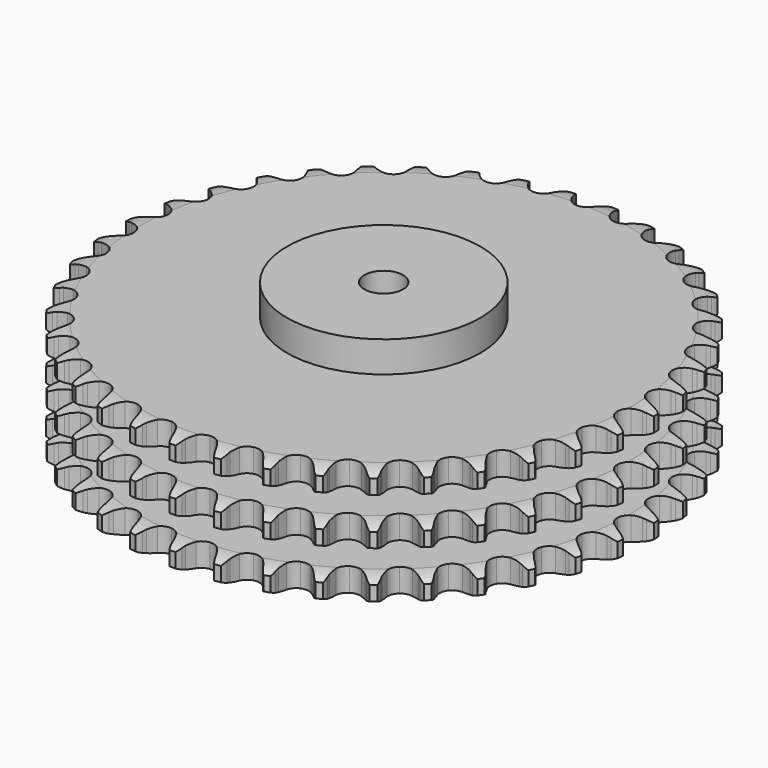
from build123d import *

# Parameters (mm, degrees)
PAD_DEPTH         = 91
SKETCH001_R       = 75
PAD001_DEPTH      = 115
SKETCH002_R       = 15
POCKET_DEPTH      = 0.001
POCKET_DEPTH_BACK = 115.001


with BuildPart() as part:
    # Sprocket → Pad (new body)
    with BuildSketch(Plane.XY):
        with BuildLine():
            ThreePointArc((-16.715659, 207.060594), (-13.935203, 204.055727), (-12.040041, 200.426881))
            Line((-12.040041, 200.426881), (-11.111154, 197.871225))
            ThreePointArc((-11.111154, 197.871225), (-9.644767, 194.595436), (-7.721808, 191.565038))
            ThreePointArc((-7.721808, 191.565038), (-4.322892, 188.703275), (0, 187.676176))
            ThreePointArc((0, 187.676176), (4.322892, 188.703275), (7.721808, 191.565038))
            ThreePointArc((7.721808, 191.565038), (9.644767, 194.595436), (11.111154, 197.871225))
            Line((11.111154, 197.871225), (12.040041, 200.426881))
            ThreePointArc((12.040041, 200.426881), (13.935203, 204.055727), (16.715659, 207.060594))
            ThreePointArc((16.715659, 207.060594), (18.978094, 203.648623), (20.266607, 199.762764))
            Line((20.266607, 199.762764), (20.77351, 197.091199))
            ThreePointArc((20.77351, 197.091199), (21.695434, 193.622606), (23.107381, 190.322986))
            ThreePointArc((23.107381, 190.322986), (26.003223, 186.953058), (30.105376, 185.245819))
            ThreePointArc((30.105376, 185.245819), (34.537045, 185.566176), (38.351006, 187.845656))
            Line((38.351006, 187.845656), (42.708044, 193.52649))
            ThreePointArc((42.708044, 193.52649), (43.338962, 194.73143), (44.034859, 195.900047))
            ThreePointArc((44.034859, 195.900047), (46.487587, 199.177895), (49.714051, 201.697834))
            ThreePointArc((49.714051, 201.697834), (51.399869, 197.967126), (52.04836, 193.924896))
            Line((52.04836, 193.924896), (52.12015, 191.206615))
            ThreePointArc((52.12015, 191.206615), (52.473734, 187.635052), (53.3381, 184.151669))
            ThreePointArc((53.3381, 184.151669), (55.655867, 180.360854), (59.431038, 178.017693))
            ThreePointArc((59.431038, 178.017693), (63.856708, 177.623011), (67.986933, 179.26117))
            Line((67.986933, 179.26117), (73.198818, 184.169521))
            ThreePointArc((73.198818, 184.169521), (74.014852, 185.257651), (74.889196, 186.299505))
            ThreePointArc((74.889196, 186.299505), (77.835966, 189.14146), (81.424875, 191.111205))
            ThreePointArc((81.424875, 191.111205), (82.490415, 187.158385), (82.482089, 183.064475))
            Line((82.482089, 183.064475), (82.116905, 180.369879))
            ThreePointArc((82.116905, 180.369879), (81.892992, 176.787848), (82.187391, 173.210921))
            ThreePointArc((82.187391, 173.210921), (83.867054, 169.0974), (87.217468, 166.179001))
            ThreePointArc((87.217468, 166.179001), (91.522515, 165.079504), (95.862034, 166.033914))
            Line((95.862034, 166.033914), (101.793781, 170.042658))
            ThreePointArc((101.793781, 170.042658), (102.773796, 170.985796), (103.803943, 171.873903))
            ThreePointArc((103.803943, 171.873903), (107.168434, 174.206361), (111.026837, 175.574897))
            ThreePointArc((111.026837, 175.574897), (111.444502, 171.50234), (110.779574, 167.462781))
            Line((110.779574, 167.462781), (109.986876, 164.861659))
            ThreePointArc((109.986876, 164.861659), (109.191264, 161.361932), (108.908071, 157.7841))
            ThreePointArc((108.908071, 157.7841), (109.906128, 153.454411), (112.745011, 150.036361))
            ThreePointArc((112.745011, 150.036361), (116.817937, 148.260524), (121.254358, 148.506467))
            Line((121.254358, 148.506467), (127.752339, 151.511779))
            ThreePointArc((127.752339, 151.511779), (128.870953, 152.285498), (130.030222, 152.996858))
            ThreePointArc((130.030222, 152.996858), (133.725297, 154.759409), (137.753263, 155.491291))
            ThreePointArc((137.753263, 155.491291), (137.512235, 151.404474), (136.207927, 147.523889))
            Line((136.207927, 147.523889), (135.008245, 145.083608))
            ThreePointArc((135.008245, 145.083608), (133.66154, 141.756827), (132.80809, 138.270754))
            ThreePointArc((132.80809, 138.270754), (133.098691, 133.837034), (135.352518, 130.007858))
            ThreePointArc((135.352518, 130.007858), (139.087836, 127.601674), (143.506259, 127.13278))
            Line((143.506259, 127.13278), (150.402179, 129.056825))
            ThreePointArc((150.402179, 129.056825), (151.63042, 129.641087), (152.888787, 130.157274))
            ThreePointArc((152.888787, 130.157274), (156.818744, 131.304269), (160.911951, 131.380542))
            ThreePointArc((160.911951, 131.380542), (160.018473, 127.385312), (158.108566, 123.764205))
            Line((158.108566, 123.764205), (156.532971, 121.547968))
            ThreePointArc((156.532971, 121.547968), (154.670052, 118.480295), (153.268449, 115.176268))
            ThreePointArc((153.268449, 115.176268), (152.844068, 110.753348), (154.454465, 106.61222))
            ThreePointArc((154.454465, 106.61222), (157.755433, 103.638008), (162.041423, 102.466422))
            Line((162.041423, 102.466422), (169.15668, 103.259367))
            ThreePointArc((169.15668, 103.259367), (170.462738, 103.639039), (171.787612, 103.946686))
            ThreePointArc((171.787612, 103.946686), (175.850669, 104.448417), (179.903105, 103.867106))
            ThreePointArc((179.903105, 103.867106), (178.380317, 100.066938), (175.914276, 96.799093))
            Line((175.914276, 96.799093), (174.003575, 94.864299))
            ThreePointArc((174.003575, 94.864299), (171.672692, 92.135185), (169.759235, 89.098778))
            ThreePointArc((169.759235, 89.098778), (168.630864, 84.801208), (169.556123, 80.455381))
            ThreePointArc((169.556123, 80.455381), (172.337247, 76.990172), (176.379799, 75.146236))
            Line((176.379799, 75.146236), (183.530113, 74.787546))
            ThreePointArc((183.530113, 74.787546), (184.880162, 74.952794), (186.237229, 75.043932))
            ThreePointArc((186.237229, 75.043932), (190.328153, 74.887407), (194.234863, 73.663567))
            ThreePointArc((194.234863, 73.663567), (192.122204, 70.156882), (189.163899, 67.326936))
            Line((189.163899, 67.326936), (186.967578, 65.723695))
            ThreePointArc((186.967578, 65.723695), (184.229098, 63.403822), (181.853347, 60.713676))
            ThreePointArc((181.853347, 60.713676), (180.050209, 56.652762), (180.266366, 52.21479))
            ThreePointArc((180.266366, 52.21479), (182.455617, 48.348331), (186.150031, 45.879803))
            Line((186.150031, 45.879803), (193.150212, 44.378766))
            ThreePointArc((193.150212, 44.378766), (194.509286, 44.325312), (195.863399, 44.197581))
            ThreePointArc((195.863399, 44.197581), (199.876238, 43.386852), (203.536039, 41.55218))
            ThreePointArc((203.536039, 41.55218), (200.888228, 38.4298), (197.514277, 36.111047))
            Line((197.514277, 36.111047), (195.089219, 34.880881))
            ThreePointArc((195.089219, 34.880881), (192.014068, 33.030333), (189.237552, 30.756121))
            ThreePointArc((189.237552, 30.756121), (186.806348, 27.037039), (186.307806, 22.621863))
            ThreePointArc((186.307806, 22.621863), (187.848482, 18.454293), (191.099075, 15.425106))
            Line((191.099075, 15.425106), (197.767823, 12.8206))
            ThreePointArc((197.767823, 12.8206), (199.100722, 12.549827), (200.41681, 12.206535))
            ThreePointArc((200.41681, 12.206535), (204.247634, 10.7626), (207.565739, 8.364613))
            ThreePointArc((207.565739, 8.364613), (204.451351, 5.707406), (200.749138, 3.9599))
            Line((200.749138, 3.9599), (198.158152, 3.134672))
            ThreePointArc((198.158152, 3.134672), (194.825975, 1.801377), (191.720605, 0.001999))
            ThreePointArc((191.720605, 0.001999), (188.724301, -3.278929), (187.523971, -7.556958))
            ThreePointArc((187.523971, -7.556958), (188.376171, -11.9177), (191.098753, -15.429092))
            Line((191.098753, -15.429092), (197.26335, -19.069613))
            ThreePointArc((197.26335, -19.069613), (198.535553, -19.550692), (199.779531, -20.100654))
            ThreePointArc((199.779531, -20.100654), (203.329123, -22.140398), (206.219596, -25.039592))
            ThreePointArc((206.219596, -25.039592), (202.719292, -27.162806), (198.784702, -28.293806))
            Line((198.784702, -28.293806), (196.094893, -28.692725))
            ThreePointArc((196.094893, -28.692725), (192.591991, -29.474235), (189.238194, -30.752174))
            ThreePointArc((189.238194, -30.752174), (185.754394, -33.509975), (183.883363, -37.540057))
            ThreePointArc((183.883363, -37.540057), (184.025015, -41.981032), (186.149074, -45.883685))
            Line((186.149074, -45.883685), (191.64986, -50.465934))
            ThreePointArc((191.64986, -50.465934), (192.828419, -51.144858), (193.968067, -51.887246))
            ThreePointArc((193.968067, -51.887246), (197.144495, -54.46997), (199.532473, -57.795286))
            ThreePointArc((199.532473, -57.795286), (195.73691, -59.329516), (191.671847, -59.814717))
            Line((191.671847, -59.814717), (188.952879, -59.776994))
            ThreePointArc((188.952879, -59.776994), (185.369975, -59.986479), (181.854613, -60.709883))
            ThreePointArc((181.854613, -60.709883), (177.973545, -62.87313), (175.480273, -66.550889))
            ThreePointArc((175.480273, -66.550889), (174.907709, -70.957077), (176.378231, -75.149915))
            Line((176.378231, -75.149915), (181.07274, -80.555213))
            ThreePointArc((181.07274, -80.555213), (182.127129, -81.414399), (183.132932, -82.329986))
            ThreePointArc((183.132932, -82.329986), (185.853928, -85.388799), (187.677564, -89.054112))
            ThreePointArc((187.677564, -89.054112), (183.685045, -89.959623), (179.594791, -89.786459))
            Line((179.594791, -89.786459), (176.917084, -89.313071))
            ThreePointArc((176.917084, -89.313071), (173.346975, -88.945105), (169.761094, -89.095237))
            ThreePointArc((169.761094, -89.095237), (165.583276, -90.607903), (162.532336, -93.838088))
            ThreePointArc((162.532336, -93.838088), (161.260384, -98.095371), (162.039286, -102.469801))
            Line((162.039286, -102.469801), (165.805931, -108.558154))
            ThreePointArc((165.805931, -108.558154), (166.708842, -109.57535), (167.55475, -110.640422))
            ThreePointArc((167.55475, -110.640422), (169.749842, -114.096104), (170.961905, -118.006483))
            ThreePointArc((170.961905, -118.006483), (166.875833, -118.259823), (162.866325, -117.432778))
            Line((162.866325, -117.432778), (160.29923, -116.535986))
            ThreePointArc((160.29923, -116.535986), (156.834379, -115.6001), (153.270851, -115.173072))
            ThreePointArc((153.270851, -115.173072), (148.904486, -115.99598), (145.374897, -118.69493))
            ThreePointArc((145.374897, -118.69493), (143.4365, -122.693047), (143.503607, -127.135773))
            Line((143.503607, -127.135773), (146.244835, -133.749496))
            ThreePointArc((146.244835, -133.749496), (146.972885, -134.898357), (147.636988, -136.08533))
            ThreePointArc((147.636988, -136.08533), (149.249324, -139.848378), (149.818422, -143.902548))
            ThreePointArc((149.818422, -143.902548), (145.744625, -143.497156), (141.919706, -142.03765))
            Line((141.919706, -142.03765), (139.529711, -140.740681))
            ThreePointArc((139.529711, -140.740681), (136.259855, -139.261112), (132.810974, -138.267984))
            ThreePointArc((132.810974, -138.267984), (128.369148, -138.379822), (124.452325, -140.477635))
            ThreePointArc((124.452325, -140.477635), (121.897686, -144.113037), (121.251261, -148.508996))
            Line((121.251261, -148.508996), (122.896075, -155.476796))
            ThreePointArc((122.896075, -155.476796), (123.430406, -156.727567), (123.895506, -158.005699))
            ThreePointArc((123.895506, -158.005699), (124.883327, -161.978654), (124.794721, -166.071613))
            ThreePointArc((124.794721, -166.071613), (120.838708, -165.017987), (117.297442, -162.963822))
            Line((117.297442, -162.963822), (115.146445, -161.300266))
            ThreePointArc((115.146445, -161.300266), (112.156272, -159.315335), (108.911362, -157.781829))
            ThreePointArc((108.911362, -157.781829), (104.509117, -157.179699), (100.306503, -158.622043))
            ThreePointArc((100.306503, -158.622043), (97.201787, -161.800575), (95.858571, -166.035914))
            Line((95.858571, -166.035914), (96.364371, -173.17733))
            ThreePointArc((96.364371, -173.17733), (96.691145, -174.497616), (96.945195, -175.833803))
            ThreePointArc((96.945195, -175.833803), (97.282917, -179.913767), (96.538902, -183.93951))
            ThreePointArc((96.538902, -183.93951), (92.803132, -182.26494), (89.637235, -179.669316))
            Line((89.637235, -179.669316), (87.780946, -177.682258))
            ThreePointArc((87.780946, -177.682258), (85.147901, -175.243375), (82.191003, -173.209206))
            ThreePointArc((82.191003, -173.209206), (77.942354, -171.908705), (73.562795, -172.658224))
            ThreePointArc((73.562795, -172.658224), (69.988412, -175.297563), (67.983194, -179.262588))
            Line((67.983194, -179.262588), (67.33688, -186.392661))
            ThreePointArc((67.33688, -186.392661), (67.447634, -187.748268), (67.484055, -189.107904))
            ThreePointArc((67.484055, -189.107904), (67.162931, -193.189208), (65.782776, -197.04347))
            ThreePointArc((65.782776, -197.04347), (62.364003, -194.791326), (59.655472, -191.721469))
            Line((59.655472, -191.721469), (58.141967, -189.462374))
            ThreePointArc((58.141967, -189.462374), (55.934244, -186.632703), (53.341941, -184.150557))
            ThreePointArc((53.341941, -184.150557), (49.356926, -182.185365), (44.913849, -182.222648))
            ThreePointArc((44.913849, -182.222648), (40.962373, -184.254436), (38.347088, -187.846456))
            Line((38.347088, -187.846456), (36.5654, -194.78052))
            ThreePointArc((36.5654, -194.78052), (36.457265, -196.136339), (36.275113, -197.48421))
            ThreePointArc((36.275113, -197.48421), (35.30346, -201.461151), (33.322911, -205.044109))
            ThreePointArc((33.322911, -205.044109), (30.30968, -202.272719), (28.128663, -198.808137))
            Line((28.128663, -198.808137), (26.997142, -196.335513))
            ThreePointArc((26.997142, -196.335513), (25.271919, -193.188342), (23.11135, -190.322504))
            ThreePointArc((23.11135, -190.322504), (19.493179, -187.74352), (15.101658, -187.0676))
            ThreePointArc((15.101658, -187.0676), (10.875431, -188.439216), (7.717813, -191.565199))
            Line((7.717813, -191.565199), (4.846895, -198.123666))
            ThreePointArc((4.846895, -198.123666), (4.522671, -199.444581), (4.126664, -200.745779))
            ThreePointArc((4.126664, -200.745779), (2.529648, -204.515355), (0, -207.734212))
            ThreePointArc((0, -207.734212), (-2.529648, -204.515355), (-4.126664, -200.745779))
            Line((-4.126664, -200.745779), (-4.846895, -198.123666))
            ThreePointArc((-4.846895, -198.123666), (-6.044935, -194.740505), (-7.717813, -191.565199))
            ThreePointArc((-7.717813, -191.565199), (-10.875431, -188.439216), (-15.101658, -187.0676))
            ThreePointArc((-15.101658, -187.0676), (-19.493179, -187.74352), (-23.11135, -190.322504))
            Line((-23.11135, -190.322504), (-26.997142, -196.335513))
            ThreePointArc((-26.997142, -196.335513), (-27.529057, -197.587314), (-28.128663, -198.808137))
            ThreePointArc((-28.128663, -198.808137), (-30.30968, -202.272719), (-33.322911, -205.044109))
            ThreePointArc((-33.322911, -205.044109), (-35.30346, -201.461151), (-36.275113, -197.48421))
            Line((-36.275113, -197.48421), (-36.5654, -194.78052))
            ThreePointArc((-36.5654, -194.78052), (-37.205229, -191.24899), (-38.347088, -187.846456))
            ThreePointArc((-38.347088, -187.846456), (-40.962373, -184.254436), (-44.913849, -182.222648))
            ThreePointArc((-44.913849, -182.222648), (-49.356926, -182.185365), (-53.341941, -184.150557))
            Line((-53.341941, -184.150557), (-58.141967, -189.462374))
            ThreePointArc((-58.141967, -189.462374), (-58.867797, -190.612639), (-59.655472, -191.721469))
            ThreePointArc((-59.655472, -191.721469), (-62.364003, -194.791326), (-65.782776, -197.04347))
            ThreePointArc((-65.782776, -197.04347), (-67.162931, -193.189208), (-67.484055, -189.107904))
            Line((-67.484055, -189.107904), (-67.33688, -186.392661))
            ThreePointArc((-67.33688, -186.392661), (-67.401926, -182.804228), (-67.983194, -179.262588))
            ThreePointArc((-67.983194, -179.262588), (-69.988412, -175.297563), (-73.562795, -172.658224))
            ThreePointArc((-73.562795, -172.658224), (-77.942354, -171.908705), (-82.191003, -173.209206))
            Line((-82.191003, -173.209206), (-87.780946, -177.682258))
            ThreePointArc((-87.780946, -177.682258), (-88.681892, -178.701196), (-89.637235, -179.669316))
            ThreePointArc((-89.637235, -179.669316), (-92.803132, -182.26494), (-96.538902, -183.93951))
            ThreePointArc((-96.538902, -183.93951), (-97.282917, -179.913767), (-96.945195, -175.833803))
            Line((-96.945195, -175.833803), (-96.364371, -173.17733))
            ThreePointArc((-96.364371, -173.17733), (-95.852949, -169.624932), (-95.858571, -166.035914))
            ThreePointArc((-95.858571, -166.035914), (-97.201787, -161.800575), (-100.306503, -158.622043))
            ThreePointArc((-100.306503, -158.622043), (-104.509117, -157.179699), (-108.911362, -157.781829))
            Line((-108.911362, -157.781829), (-115.146445, -161.300266))
            ThreePointArc((-115.146445, -161.300266), (-116.199172, -162.161487), (-117.297442, -162.963822))
            ThreePointArc((-117.297442, -162.963822), (-120.838708, -165.017987), (-124.794721, -166.071613))
            ThreePointArc((-124.794721, -166.071613), (-124.883327, -161.978654), (-123.895506, -158.005699))
            Line((-123.895506, -158.005699), (-122.896075, -155.476796))
            ThreePointArc((-122.896075, -155.476796), (-121.821431, -152.052439), (-121.251261, -148.508996))
            ThreePointArc((-121.251261, -148.508996), (-121.897686, -144.113037), (-124.452325, -140.477635))
            ThreePointArc((-124.452325, -140.477635), (-128.369148, -138.379822), (-132.810974, -138.267984))
            Line((-132.810974, -138.267984), (-139.529711, -140.740681))
            ThreePointArc((-139.529711, -140.740681), (-140.706955, -141.42188), (-141.919706, -142.03765))
            ThreePointArc((-141.919706, -142.03765), (-145.744625, -143.497156), (-149.818422, -143.902548))
            ThreePointArc((-149.818422, -143.902548), (-149.249324, -139.848378), (-147.636988, -136.08533))
            Line((-147.636988, -136.08533), (-146.244835, -133.749496))
            ThreePointArc((-146.244835, -133.749496), (-144.634802, -130.541868), (-143.503607, -127.135773))
            ThreePointArc((-143.503607, -127.135773), (-143.4365, -122.693047), (-145.374897, -118.69493))
            ThreePointArc((-145.374897, -118.69493), (-148.904486, -115.99598), (-153.270851, -115.173072))
            Line((-153.270851, -115.173072), (-160.29923, -116.535986))
            ThreePointArc((-160.29923, -116.535986), (-161.570502, -117.019521), (-162.866325, -117.432778))
            ThreePointArc((-162.866325, -117.432778), (-166.875833, -118.259823), (-170.961905, -118.006483))
            ThreePointArc((-170.961905, -118.006483), (-169.749842, -114.096104), (-167.55475, -110.640422))
            Line((-167.55475, -110.640422), (-165.805931, -108.558154))
            ThreePointArc((-165.805931, -108.558154), (-163.702208, -105.650331), (-162.039286, -102.469801))
            ThreePointArc((-162.039286, -102.469801), (-161.260384, -98.095371), (-162.532336, -93.838088))
            ThreePointArc((-162.532336, -93.838088), (-165.583276, -90.607903), (-169.761094, -89.095237))
            Line((-169.761094, -89.095237), (-176.917084, -89.313071))
            ThreePointArc((-176.917084, -89.313071), (-178.249458, -89.586418), (-179.594791, -89.786459))
            ThreePointArc((-179.594791, -89.786459), (-183.685045, -89.959623), (-187.677564, -89.054112))
            ThreePointArc((-187.677564, -89.054112), (-185.853928, -85.388799), (-183.132932, -82.329986))
            Line((-183.132932, -82.329986), (-181.07274, -80.555213))
            ThreePointArc((-181.07274, -80.555213), (-178.529812, -78.022506), (-176.378231, -75.149915))
            ThreePointArc((-176.378231, -75.149915), (-174.907709, -70.957077), (-175.480273, -66.550889))
            ThreePointArc((-175.480273, -66.550889), (-177.973545, -62.87313), (-181.854613, -60.709883))
            Line((-181.854613, -60.709883), (-188.952879, -59.776994))
            ThreePointArc((-188.952879, -59.776994), (-190.311846, -59.833073), (-191.671847, -59.814717))
            ThreePointArc((-191.671847, -59.814717), (-195.73691, -59.329516), (-199.532473, -57.795286))
            ThreePointArc((-199.532473, -57.795286), (-197.144495, -54.46997), (-193.968067, -51.887246))
            Line((-193.968067, -51.887246), (-191.64986, -50.465934))
            ThreePointArc((-191.64986, -50.465934), (-188.733588, -48.37394), (-186.149074, -45.883685))
            ThreePointArc((-186.149074, -45.883685), (-184.025015, -41.981032), (-183.883363, -37.540057))
            ThreePointArc((-183.883363, -37.540057), (-185.754394, -33.509975), (-189.238194, -30.752174))
            Line((-189.238194, -30.752174), (-196.094893, -28.692725))
            ThreePointArc((-196.094893, -28.692725), (-197.445258, -28.530084), (-198.784702, -28.293806))
            ThreePointArc((-198.784702, -28.293806), (-202.719292, -27.162806), (-206.219596, -25.039592))
            ThreePointArc((-206.219596, -25.039592), (-203.329123, -22.140398), (-199.779531, -20.100654))
            Line((-199.779531, -20.100654), (-197.26335, -19.069613))
            ThreePointArc((-197.26335, -19.069613), (-194.049263, -17.472513), (-191.098753, -15.429092))
            ThreePointArc((-191.098753, -15.429092), (-188.376171, -11.9177), (-187.523971, -7.556958))
            ThreePointArc((-187.523971, -7.556958), (-188.724301, -3.278929), (-191.720605, 0.001999))
            Line((-191.720605, 0.001999), (-198.158152, 3.134672))
            ThreePointArc((-198.158152, 3.134672), (-199.464941, 3.51182), (-200.749138, 3.9599))
            ThreePointArc((-200.749138, 3.9599), (-204.451351, 5.707406), (-207.565739, 8.364613))
            ThreePointArc((-207.565739, 8.364613), (-204.247634, 10.7626), (-200.41681, 12.206535))
            Line((-200.41681, 12.206535), (-197.767823, 12.8206))
            ThreePointArc((-197.767823, 12.8206), (-194.339165, 13.881442), (-191.099075, 15.425106))
            ThreePointArc((-191.099075, 15.425106), (-187.848482, 18.454293), (-186.307806, 22.621863))
            ThreePointArc((-186.307806, 22.621863), (-186.806348, 27.037039), (-189.237552, 30.756121))
            Line((-189.237552, 30.756121), (-195.089219, 34.880881))
            ThreePointArc((-195.089219, 34.880881), (-196.318587, 35.46277), (-197.514277, 36.111047))
            ThreePointArc((-197.514277, 36.111047), (-200.888228, 38.4298), (-203.536039, 41.55218))
            ThreePointArc((-203.536039, 41.55218), (-199.876238, 43.386852), (-195.863399, 44.197581))
            Line((-195.863399, 44.197581), (-193.150212, 44.378766))
            ThreePointArc((-193.150212, 44.378766), (-189.595784, 44.875876), (-186.150031, 45.879803))
            ThreePointArc((-186.150031, 45.879803), (-182.455617, 48.348331), (-180.266366, 52.21479))
            ThreePointArc((-180.266366, 52.21479), (-180.050209, 56.652762), (-181.853347, 60.713676))
            Line((-181.853347, 60.713676), (-186.967578, 65.723695))
            ThreePointArc((-186.967578, 65.723695), (-188.087684, 66.495252), (-189.163899, 67.326936))
            ThreePointArc((-189.163899, 67.326936), (-192.122204, 70.156882), (-194.234863, 73.663567))
            ThreePointArc((-194.234863, 73.663567), (-190.328153, 74.887407), (-186.237229, 75.043932))
            Line((-186.237229, 75.043932), (-183.530113, 74.787546))
            ThreePointArc((-183.530113, 74.787546), (-179.941971, 74.708047), (-176.379799, 75.146236))
            ThreePointArc((-176.379799, 75.146236), (-172.337247, 76.990172), (-169.556123, 80.455381))
            ThreePointArc((-169.556123, 80.455381), (-168.630864, 84.801208), (-169.759235, 89.098778))
            Line((-169.759235, 89.098778), (-174.003575, 94.864299))
            ThreePointArc((-174.003575, 94.864299), (-174.985409, 95.805542), (-175.914276, 96.799093))
            ThreePointArc((-175.914276, 96.799093), (-178.380317, 100.066938), (-179.903105, 103.867106))
            ThreePointArc((-179.903105, 103.867106), (-175.850669, 104.448417), (-171.787612, 103.946686))
            Line((-171.787612, 103.946686), (-169.15668, 103.259367))
            ThreePointArc((-169.15668, 103.259367), (-165.627756, 102.60532), (-162.041423, 102.466422))
            ThreePointArc((-162.041423, 102.466422), (-157.755433, 103.638008), (-154.454465, 106.61222))
            ThreePointArc((-154.454465, 106.61222), (-152.844068, 110.753348), (-153.268449, 115.176268))
            Line((-153.268449, 115.176268), (-156.532971, 121.547968))
            ThreePointArc((-156.532971, 121.547968), (-157.351105, 122.634519), (-158.108566, 123.764205))
            ThreePointArc((-158.108566, 123.764205), (-160.018473, 127.385312), (-160.911951, 131.380542))
            ThreePointArc((-160.911951, 131.380542), (-156.818744, 131.304269), (-152.888787, 130.157274))
            Line((-152.888787, 130.157274), (-150.402179, 129.056825))
            ThreePointArc((-150.402179, 129.056825), (-147.02387, 127.845168), (-143.506259, 127.13278))
            ThreePointArc((-143.506259, 127.13278), (-139.087836, 127.601674), (-135.352518, 130.007858))
            ThreePointArc((-135.352518, 130.007858), (-133.098691, 133.837034), (-132.80809, 138.270754))
            Line((-132.80809, 138.270754), (-135.008245, 145.083608))
            ThreePointArc((-135.008245, 145.083608), (-135.641489, 146.287327), (-136.207927, 147.523889))
            ThreePointArc((-136.207927, 147.523889), (-137.512235, 151.404474), (-137.753263, 155.491291))
            ThreePointArc((-137.753263, 155.491291), (-133.725297, 154.759409), (-130.030222, 152.996858))
            Line((-130.030222, 152.996858), (-127.752339, 151.511779))
            ThreePointArc((-127.752339, 151.511779), (-124.612142, 149.773894), (-121.254358, 148.506467))
            ThreePointArc((-121.254358, 148.506467), (-116.817937, 148.260524), (-112.745011, 150.036361))
            ThreePointArc((-112.745011, 150.036361), (-109.906128, 153.454411), (-108.908071, 157.7841))
            Line((-108.908071, 157.7841), (-109.986876, 164.861659))
            ThreePointArc((-109.986876, 164.861659), (-110.41883, 166.151369), (-110.779574, 167.462781))
            ThreePointArc((-110.779574, 167.462781), (-111.444502, 171.50234), (-111.026837, 175.574897))
            ThreePointArc((-111.026837, 175.574897), (-107.168434, 174.206361), (-103.803943, 171.873903))
            Line((-103.803943, 171.873903), (-101.793781, 170.042658))
            ThreePointArc((-101.793781, 170.042658), (-98.973025, 167.823555), (-95.862034, 166.033914))
            ThreePointArc((-95.862034, 166.033914), (-91.522515, 165.079504), (-87.217468, 166.179001))
            ThreePointArc((-87.217468, 166.179001), (-83.867054, 169.0974), (-82.187391, 173.210921))
            Line((-82.187391, 173.210921), (-82.116905, 180.369879))
            ThreePointArc((-82.116905, 180.369879), (-82.336381, 181.712179), (-82.482089, 183.064475))
            ThreePointArc((-82.482089, 183.064475), (-82.490415, 187.158385), (-81.424875, 191.111205))
            ThreePointArc((-81.424875, 191.111205), (-77.835966, 189.14146), (-74.889196, 186.299505))
            Line((-74.889196, 186.299505), (-73.198818, 184.169521))
            ThreePointArc((-73.198818, 184.169521), (-70.770559, 181.526674), (-67.986933, 179.26117))
            ThreePointArc((-67.986933, 179.26117), (-63.856708, 177.623011), (-59.431038, 178.017693))
            ThreePointArc((-59.431038, 178.017693), (-55.655867, 180.360854), (-53.3381, 184.151669))
            Line((-53.3381, 184.151669), (-52.12015, 191.206615))
            ThreePointArc((-52.12015, 191.206615), (-52.121463, 192.566738), (-52.04836, 193.924896))
            ThreePointArc((-52.04836, 193.924896), (-51.399869, 197.967126), (-49.714051, 201.697834))
            ThreePointArc((-49.714051, 201.697834), (-46.487587, 199.177895), (-44.034859, 195.900047))
            Line((-44.034859, 195.900047), (-42.708044, 193.52649))
            ThreePointArc((-42.708044, 193.52649), (-40.735173, 190.528347), (-38.351006, 187.845656))
            ThreePointArc((-38.351006, 187.845656), (-34.537045, 185.566176), (-30.105376, 185.245819))
            ThreePointArc((-30.105376, 185.245819), (-26.003223, 186.953058), (-23.107381, 190.322986))
            Line((-23.107381, 190.322986), (-20.77351, 197.091199))
            ThreePointArc((-20.77351, 197.091199), (-20.556627, 198.43392), (-20.266607, 199.762764))
            ThreePointArc((-20.266607, 199.762764), (-18.978094, 203.648623), (-16.715659, 207.060594))
        make_face()
    extrude(amount=PAD_DEPTH)

    # Sketch → Groove (revolve, cut)
    with BuildSketch(Plane.XZ):
        with BuildLine():
            ThreePointArc((190.298368, 0), (197.781683, 0.887302), (204.85, 3.5))
            Line((204.85, 3.5), (204.85, 14.7))
            ThreePointArc((204.85, 14.7), (197.781683, 17.312698), (190.298368, 18.2))
            Line((75, 18.2), (190.298368, 18.2))
            Line((75, 18.2), (75, 36.4))
            Line((75, 36.4), (190.298368, 36.4))
            ThreePointArc((190.298368, 36.4), (197.781683, 37.287302), (204.85, 39.9))
            Line((204.85, 51.1), (204.85, 39.9))
            ThreePointArc((204.85, 51.1), (197.781683, 53.712698), (190.298368, 54.6))
            Line((75, 54.6), (190.298368, 54.6))
            Line((75, 72.8), (75, 54.6))
            Line((190.298368, 72.8), (75, 72.8))
            ThreePointArc((190.298368, 72.8), (197.781683, 73.687302), (204.85, 76.3))
            Line((204.85, 76.3), (204.85, 87.5))
            ThreePointArc((204.85, 87.5), (197.781683, 90.112698), (190.298368, 91))
            Line((190.298368, 91), (214.85, 91))
            Line((214.85, 91), (214.85, 0))
            Line((190.298368, 0), (214.85, 0))
        make_face()
    revolve(axis=Axis((0, 0, 0), (0, 0, 1)), mode=Mode.SUBTRACT)

    # Sketch001 → Pad001 (join)
    with BuildSketch(Plane.XY):
        Circle(SKETCH001_R)
    extrude(amount=PAD001_DEPTH)

    # Sketch002 → Pocket (cut, two sides)
    with BuildSketch(Plane.XY) as pocket_sk:
        Circle(SKETCH002_R)
    extrude(amount=-POCKET_DEPTH, mode=Mode.SUBTRACT)
    extrude(pocket_sk.sketch, amount=POCKET_DEPTH_BACK, mode=Mode.SUBTRACT)


solid = part.part
